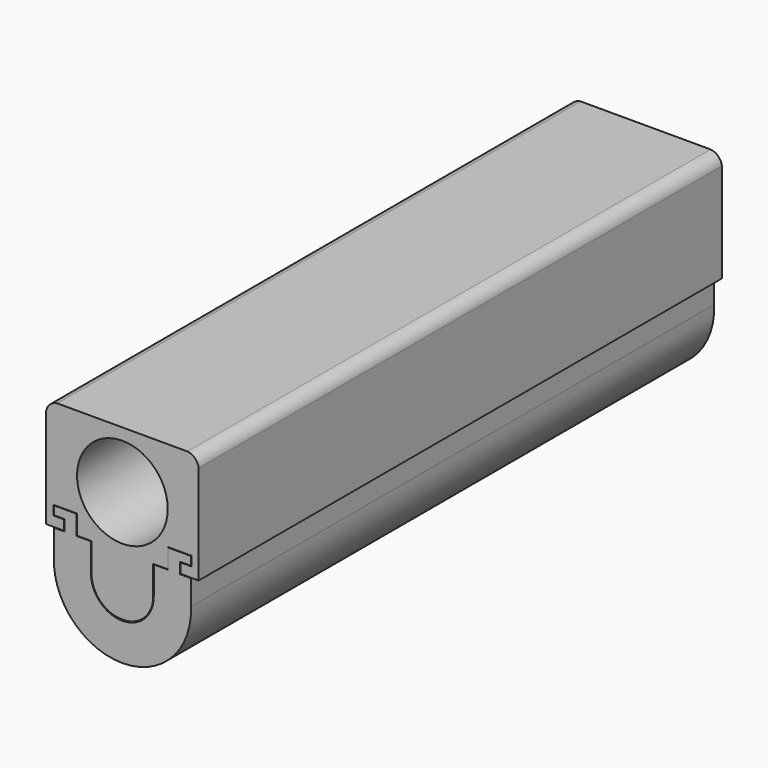
from build123d import *

# Parameters (mm, degrees)
F0_R     = 12.852413
F1_DEPTH = 185.42


with BuildPart() as f1:
    # F0 (on Front) → F1 (new body)
    with BuildSketch(Plane.XZ):
        with BuildLine():
            ThreePointArc((8.89335, 0), (0, -8.89335), (-8.89335, 0))
            Line((-8.89335, 0), (-8.89335, 8.063619))
            Line((-8.89335, 8.063619), (-12.97598, 8.063619))
            Line((-12.97598, 8.063619), (-12.97598, 13.607984))
            Line((-12.97598, 13.607984), (-19.414598, 13.607984))
            Line((-19.414598, 13.607984), (-19.414598, 11.167311))
            Line((-19.414598, 11.167311), (-16.379405, 11.167311))
            Line((-16.379405, 11.167311), (-16.379405, 8.063619))
            Line((-16.379405, 8.063619), (-19.414598, 8.063619))
            Line((-19.414598, 8.063619), (-19.414598, 0.969209))
            ThreePointArc((-19.414598, 0.969209), (0, -19.438775), (19.414598, 0.969209))
            Line((19.414598, 0.969209), (19.414598, 8.063619))
            Line((19.414598, 8.063619), (16.379405, 8.063619))
            Line((16.379405, 8.063619), (16.379405, 11.167311))
            Line((16.379405, 11.167311), (19.414598, 11.167311))
            Line((19.414598, 11.167311), (19.414598, 13.607984))
            Line((19.414598, 13.607984), (12.97598, 13.607984))
            Line((12.97598, 13.607984), (12.97598, 8.063619))
            Line((12.97598, 8.063619), (8.89335, 8.063619))
            Line((8.89335, 8.063619), (8.89335, 0))
        make_face()
        with BuildLine():
            Line((-16.540358, 11.043042), (-19.571194, 11.043042))
            Line((-19.571194, 11.043042), (-19.571194, 13.720666))
            Line((-19.571194, 13.720666), (-12.914112, 13.720666))
            Line((-12.914112, 13.720666), (-12.914112, 8.173157))
            Line((-12.914112, 8.173157), (-8.739699, 8.173157))
            Line((-8.739699, 8.173157), (-8.739699, 0))
            ThreePointArc((-8.739699, 0), (-6.167987, -6.112296), (0, -8.547417))
            ThreePointArc((0, -8.547417), (6.167987, -6.112296), (8.739699, 0))
            Line((8.739699, 0), (8.739699, 8.173157))
            Line((8.739699, 8.173157), (12.914112, 8.173157))
            Line((12.914112, 8.173157), (12.914112, 13.720666))
            Line((12.914112, 13.720666), (19.571194, 13.720666))
            Line((19.571194, 13.720666), (19.571194, 11.043042))
            Line((19.571194, 11.043042), (16.540358, 11.043042))
            Line((16.540358, 11.043042), (16.540358, 8.211602))
            Line((16.540358, 8.211602), (21.63163, 8.211602))
            Line((21.63163, 8.211602), (21.63163, 36.286056))
            ThreePointArc((21.63163, 36.286056), (20.569301, 38.399275), (18.419044, 39.384481))
            Line((18.419044, 39.384481), (0, 39.384481))
            Line((0, 39.384481), (-18.419044, 39.384481))
            ThreePointArc((-18.419044, 39.384481), (-20.569301, 38.399275), (-21.63163, 36.286056))
            Line((-21.63163, 36.286056), (-21.63163, 8.211602))
            Line((-21.63163, 8.211602), (-16.540358, 8.211602))
            Line((-16.540358, 8.211602), (-16.540358, 11.043042))
        make_face()
        with Locations((0, 23.209002)):
            Circle(F0_R, mode=Mode.SUBTRACT)
    extrude(amount=F1_DEPTH)


solid = f1.part
